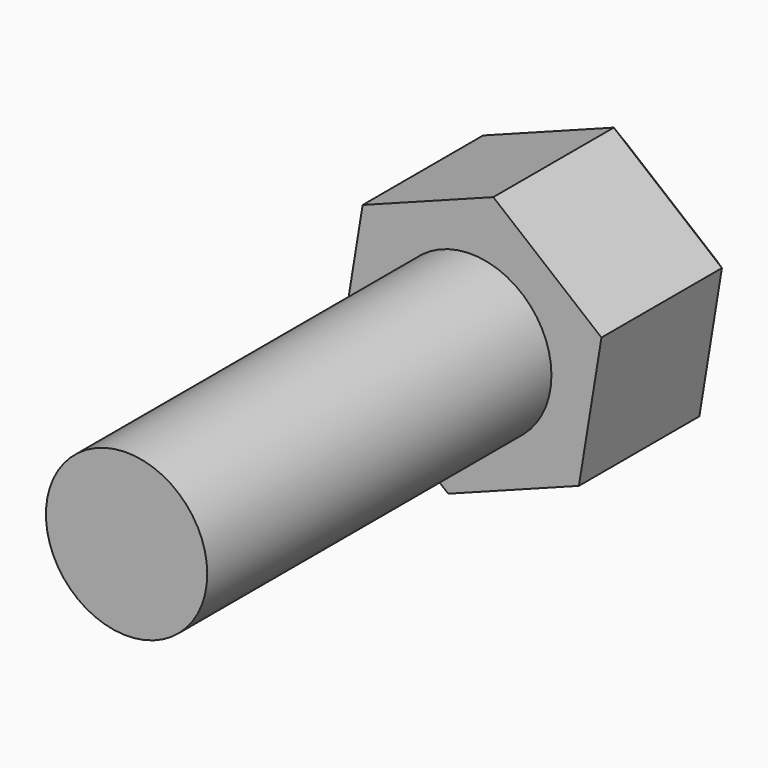
from build123d import *

# Parameters (mm, degrees)
F1_DEPTH = 10.16
F2_R     = 4.7625
F3_DEPTH = 25.4
F4_SIZE  = 1.27


with BuildPart() as f1:
    # F0 (on Front) → F1 (new body)
    with BuildSketch(Plane.XZ):
        Polygon((7.715837, 2.917203), (1.331547, 8.140713), (-6.38429, 5.22351), (-7.715837, -2.917203), (-1.331547, -8.140713), (6.38429, -5.22351), align=None)
    extrude(amount=-F1_DEPTH)

    # F2 (on Front) → F3 (join)
    with BuildSketch(Plane.XZ):
        Circle(F2_R)
    extrude(amount=F3_DEPTH)

    # F4
    f4_edges = [f1.edges().sort_by_distance(p)[0] for p in [
        (-7.050064, 10.16, 1.153154),
        (-2.526371, 10.16, 6.682111),
        (4.523692, 10.16, 5.528958),
        (-4.523692, 10.16, -5.528958),
        (2.526371, 10.16, -6.682111),
        (7.050064, 10.16, -1.153154),
    ]]
    chamfer(f4_edges, length=F4_SIZE)


solid = f1.part
